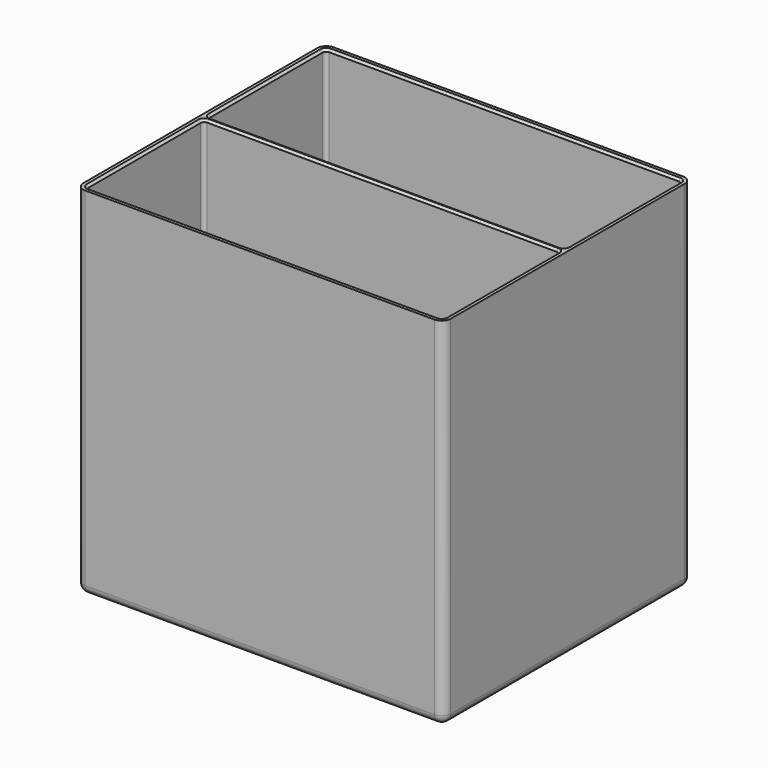
from build123d import *

# Parameters (mm, degrees)
F1_DEPTH = 80
F3_DEPTH = 1.2
F4_R     = 2
F5_SIZE  = 0.5


with BuildPart() as f1:
    # F0 (on Top) → F1 (new body)
    with BuildSketch(Plane.XY):
        with BuildLine():
            Line((39.200001, 34.800001), (-39.200001, 34.800001))
            ThreePointArc((-39.200001, 34.800001), (-40.614214, 34.214214), (-41.200001, 32.800001))
            Line((-41.200001, 32.800001), (-41.200001, -32.800001))
            ThreePointArc((-41.200001, -32.800001), (-40.614214, -34.214214), (-39.200001, -34.800001))
            Line((-39.200001, -34.800001), (39.200001, -34.800001))
            ThreePointArc((39.200001, -34.800001), (40.614214, -34.214214), (41.200001, -32.800001))
            Line((41.200001, -32.800001), (41.200001, 32.800001))
            ThreePointArc((41.200001, 32.800001), (40.614214, 34.214214), (39.200001, 34.800001))
        make_face()
        with BuildLine():
            ThreePointArc((-39.200001, -33.6), (-39.765686, -33.365686), (-40, -32.800001))
            Line((-40, -32.800001), (-40, -1.4))
            ThreePointArc((-40, -1.4), (-39.765685, -0.834315), (-39.2, -0.6))
            Line((-39.2, -0.6), (39.2, -0.6))
            ThreePointArc((39.2, -0.6), (39.765685, -0.834315), (40, -1.4))
            Line((40, -1.4), (40, -32.800001))
            ThreePointArc((40, -32.800001), (39.765686, -33.365686), (39.200001, -33.6))
            Line((39.200001, -33.6), (-39.200001, -33.6))
        make_face(mode=Mode.SUBTRACT)
        with BuildLine():
            ThreePointArc((-40, 32.800001), (-39.765686, 33.365686), (-39.200001, 33.6))
            Line((-39.200001, 33.6), (39.200001, 33.6))
            ThreePointArc((39.200001, 33.6), (39.765686, 33.365686), (40, 32.800001))
            Line((40, 32.800001), (40, 1.4))
            ThreePointArc((40, 1.4), (39.765685, 0.834315), (39.2, 0.6))
            Line((39.2, 0.6), (-39.2, 0.6))
            ThreePointArc((-39.2, 0.6), (-39.765685, 0.834315), (-40, 1.4))
            Line((-40, 1.4), (-40, 32.800001))
        make_face(mode=Mode.SUBTRACT)
    extrude(amount=F1_DEPTH)

    # F2 (on Top) → F3 (join)
    with BuildSketch(Plane.XY):
        with BuildLine():
            ThreePointArc((-39.200001, 34.800001), (-40.614214, 34.214214), (-41.200001, 32.800001))
            Line((-41.200001, 32.800001), (-41.200001, -32.800001))
            ThreePointArc((-41.200001, -32.800001), (-40.614214, -34.214214), (-39.200001, -34.800001))
            Line((-39.200001, -34.800001), (39.200001, -34.800001))
            ThreePointArc((39.200001, -34.800001), (40.614214, -34.214214), (41.200001, -32.800001))
            Line((41.200001, -32.800001), (41.200001, 32.800001))
            ThreePointArc((41.200001, 32.800001), (40.614214, 34.214214), (39.200001, 34.800001))
            Line((39.200001, 34.800001), (-39.200001, 34.800001))
        make_face()
    extrude(amount=F3_DEPTH)

    # F4
    f4_edges = [f1.edges().sort_by_distance(p)[0] for p in [
        (41.200001, 0, 0),
        (0, 34.800001, 0),
        (0, -34.800001, 0),
        (-41.200001, 0, 0),
    ]]
    fillet(f4_edges, radius=F4_R)

    # F5
    f5_edges = [f1.edges().sort_by_distance(p)[0] for p in [
        (0, 33.6, 80),
        (0, -0.6, 80),
    ]]
    chamfer(f5_edges, length=F5_SIZE)


solid = f1.part
